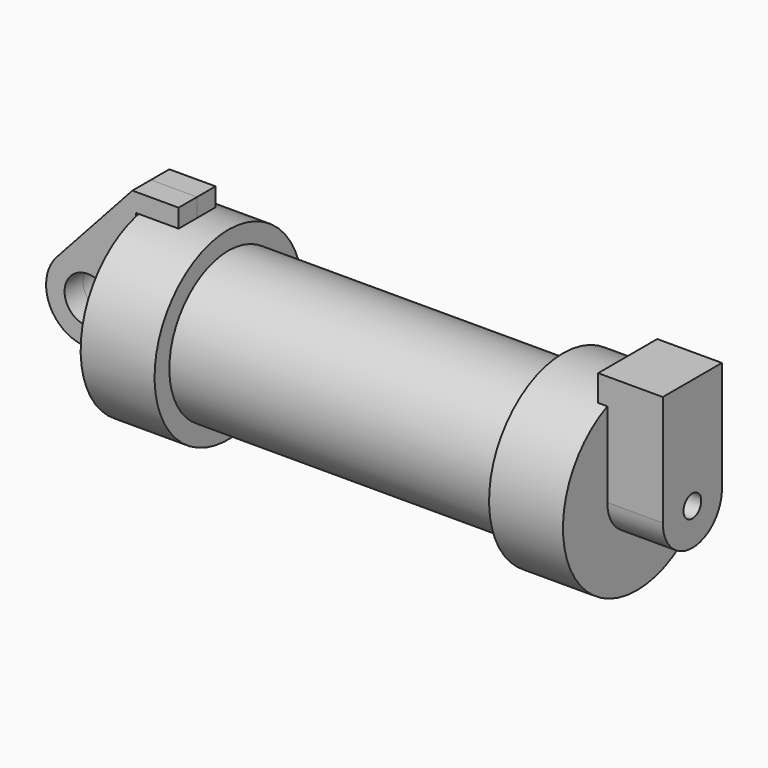
from build123d import *

# Parameters (mm, degrees)
F0_W          = 5.842
F0_H          = 12.7
F0_R          = 3.175
F2_DEPTH      = 3.175
F3_R          = 1.524
F4_DEPTH      = 7.62
F4_DEPTH_BACK = 1.27


with BuildPart() as f1:
    # F0 (on Front) → F1 (revolve)
    with BuildSketch(Plane.XZ):
        Polygon((5.842, 12.7), (5.842, 0), (66.294, 0), (66.294, 12.7), (56.134, 12.7), (56.134, 10.16), (10.16, 10.16), (10.16, 12.7), align=None)
        with Locations((2.921, 6.35)):
            Rectangle(F0_W, F0_H)
    revolve(axis=Axis((33.147, 0, 0), (-1, 0, 0)))

    # F3 (on face) → F4 (join, two sides)
    with BuildSketch(Plane.YZ.offset(66.294)) as f4_sk:
        with BuildLine():
            ThreePointArc((-5.08, 0), (0, 5.08), (5.08, 0))
            Line((5.08, 0), (5.08, 11.6397422652))
            ThreePointArc((5.08, 11.6397422652), (0, 12.7), (-5.08, 11.6397422652))
            Line((-5.08, 11.6397422652), (-5.08, 0))
        make_face()
        with BuildLine():
            ThreePointArc((-5.08, 0), (0, -5.08), (5.08, 0))
            ThreePointArc((5.08, 0), (0, 5.08), (-5.08, 0))
        make_face()
        Circle(F3_R, mode=Mode.SUBTRACT)
        with BuildLine():
            ThreePointArc((-5.08, 11.6397422652), (0, 12.7), (5.08, 11.6397422652))
            Line((5.08, 11.6397422652), (5.08, 15.24))
            Line((5.08, 15.24), (-5.08, 15.24))
            Line((-5.08, 15.24), (-5.08, 11.6397422652))
        make_face()
    extrude(amount=F4_DEPTH)
    extrude(f4_sk.sketch, amount=-F4_DEPTH_BACK)


with BuildPart() as f2:
    # F0 (on Front) → F2 (new body, symmetric)
    with BuildSketch(Plane.XZ):
        with BuildLine():
            Line((-0.9398, 0), (0, 0))
            Line((0, 0), (0, 12.7))
            Line((0, 12.7), (5.842, 12.7))
            Line((5.842, 12.7), (5.842, 15.24))
            Line((5.842, 15.24), (-0.508, 15.24))
            Line((-0.508, 15.24), (-10.8806298187, 3.8475430269))
            ThreePointArc((-10.8806298187, 3.8475430269), (-4.5919612295, 5.3297205562), (-0.9398, 0))
        make_face()
        with BuildLine():
            ThreePointArc((-8.1826630726, -5.5069827884), (-3.1957909266, -4.5493385486), (-0.9398, 0))
            ThreePointArc((-0.9398, 0), (-4.5919612295, 5.3297205562), (-10.8806298187, 3.8475430269))
            ThreePointArc((-10.8806298187, 3.8475430269), (-12.1459778134, -1.5837270034), (-8.1826630726, -5.5069827884))
        make_face()
        with Locations((-6.6548, 0)):
            Circle(F0_R, mode=Mode.SUBTRACT)
    extrude(amount=F2_DEPTH, both=True)


solid = Compound([f1.part, f2.part])
